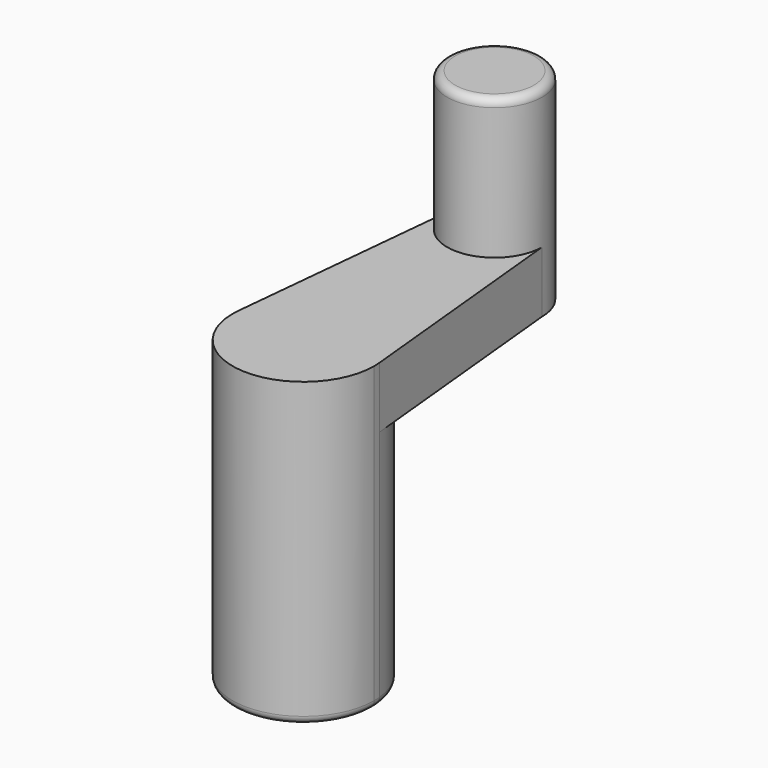
from build123d import *

# Parameters (mm, degrees)
F1_DEPTH = 3.8
F2_DEPTH = 12.5
F3_DEPTH = 15
F4_R     = 0.5


with BuildPart() as f1:
    # F0 (on Top) → F1 (new body)
    with BuildSketch(Plane.XY):
        with BuildLine():
            Line((4.378555, -14.41611), (2.95, 0))
            ThreePointArc((2.95, 0), (0, -2.95), (-2.95, 0))
            Line((-2.95, 0), (-4.378555, -14.41611))
            ThreePointArc((-4.378555, -14.41611), (0, -10.45), (4.378555, -14.41611))
        make_face()
        with BuildLine():
            ThreePointArc((4.4, -14.85), (4.394635, -14.63279), (4.378555, -14.41611))
            ThreePointArc((4.378555, -14.41611), (0, -10.45), (-4.378555, -14.41611))
            ThreePointArc((-4.378555, -14.41611), (-0.21721, -19.244635), (4.4, -14.85))
        make_face()
        with BuildLine():
            ThreePointArc((-2.95, 0), (0, -2.95), (2.95, 0))
            ThreePointArc((2.95, 0), (0, 2.95), (-2.95, 0))
        make_face()
    extrude(amount=F1_DEPTH)

    # F0 (on Top) → F2 (join)
    with BuildSketch(Plane.XY):
        with BuildLine():
            ThreePointArc((-2.95, 0), (0, -2.95), (2.95, 0))
            ThreePointArc((2.95, 0), (0, 2.95), (-2.95, 0))
        make_face()
    extrude(amount=F2_DEPTH)

    # F0 (on Top) → F3 (join)
    with BuildSketch(Plane.XY):
        with BuildLine():
            ThreePointArc((4.4, -14.85), (4.394635, -14.63279), (4.378555, -14.41611))
            ThreePointArc((4.378555, -14.41611), (0, -10.45), (-4.378555, -14.41611))
            ThreePointArc((-4.378555, -14.41611), (-0.21721, -19.244635), (4.4, -14.85))
        make_face()
    extrude(amount=-F3_DEPTH)

    # F4
    f4_edges = [f1.edges().sort_by_distance(p)[0] for p in [
        (-2.95, 0, 12.5),
        (-4.4, -14.85, -15),
    ]]
    fillet(f4_edges, radius=F4_R)


solid = f1.part
